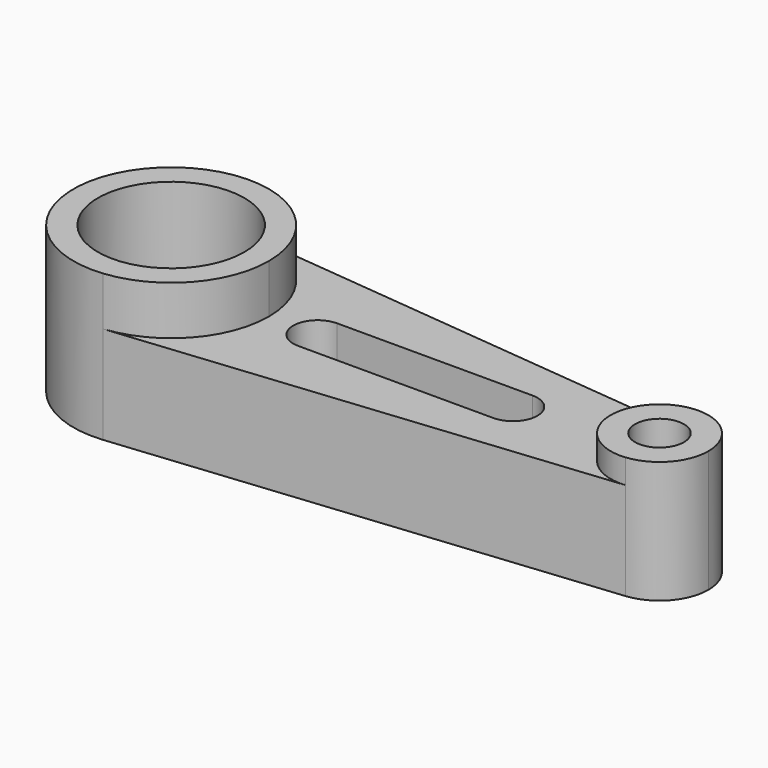
from build123d import *

# Parameters (mm, degrees)
F0_R     = 6.35
F1_DEPTH = 31.75
F0_R_2   = 19.05
F2_DEPTH = 38.1
F3_DEPTH = 25.4


with BuildPart() as f1:
    # F0 (on Top) → F1 (new body)
    with BuildSketch(Plane.XY):
        with BuildLine():
            ThreePointArc((101.6, 0), (98.318572, 8.519419), (90.17, 12.63634))
            ThreePointArc((90.17, 12.63634), (76.2, 0), (90.17, -12.63634))
            ThreePointArc((90.17, -12.63634), (98.318572, -8.519419), (101.6, 0))
        make_face()
        with Locations((88.9, 0)):
            Circle(F0_R, mode=Mode.SUBTRACT)
    extrude(amount=F1_DEPTH)


with BuildPart() as f2:
    # F0 (on Top) → F2 (new body)
    with BuildSketch(Plane.XY):
        with BuildLine():
            ThreePointArc((-35.56, -25.272681), (-19.262856, -17.038838), (-12.7, 0))
            ThreePointArc((-12.7, 0), (-19.262856, 17.038838), (-35.56, 25.272681))
            ThreePointArc((-35.56, 25.272681), (-63.5, 0), (-35.56, -25.272681))
        make_face()
        with Locations((-38.1, 0)):
            Circle(F0_R_2, mode=Mode.SUBTRACT)
    extrude(amount=F2_DEPTH)


with BuildPart() as f3:
    # F0 (on Top) → F3 (new body)
    with BuildSketch(Plane.XY):
        with BuildLine():
            ThreePointArc((-35.56, 25.272681), (-19.262856, 17.038838), (-12.7, 0))
            ThreePointArc((-12.7, 0), (-19.262856, -17.038838), (-35.56, -25.272681))
            Line((-35.56, -25.272681), (90.17, -12.63634))
            ThreePointArc((90.17, -12.63634), (76.2, 0), (90.17, 12.63634))
            Line((90.17, 12.63634), (-35.56, 25.272681))
        make_face()
        with BuildLine():
            ThreePointArc((0, -6.35), (-6.35, 0), (0, 6.35))
            Line((0, 6.35), (50.8, 6.35))
            ThreePointArc((50.8, 6.35), (55.290128, 4.490128), (57.15, 0))
            ThreePointArc((57.15, 0), (55.290128, -4.490128), (50.8, -6.35))
            Line((50.8, -6.35), (0, -6.35))
        make_face(mode=Mode.SUBTRACT)
    extrude(amount=F3_DEPTH)


solid = Compound([f1.part, f2.part, f3.part])
